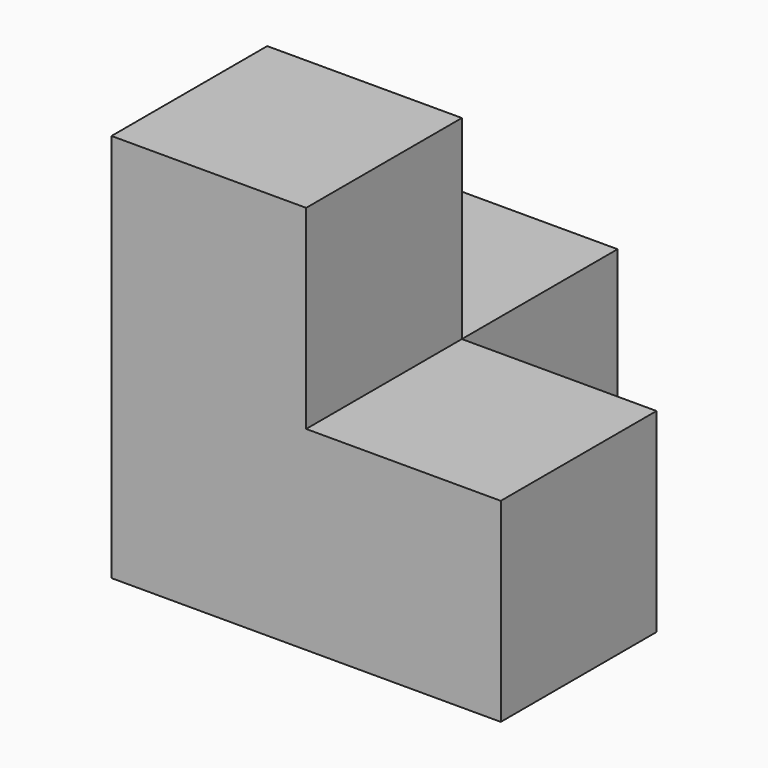
from build123d import *

# Parameters (mm, degrees)
BOX001_W     = 10
BOX001_H     = 10
BOX001_DEPTH = 10
BOX002_W     = 10
BOX002_H     = 10
BOX002_DEPTH = 10
BOX_W        = 10
BOX_H        = 10
BOX_DEPTH    = 20


with BuildPart() as cubo001:
    # Box001 → Box001 (new body)
    with BuildSketch(Plane(origin=(10, 0, 0), x_dir=(1, 0, 0), z_dir=(0, 0, 1))):
        with Locations((5, 5)):
            Rectangle(BOX001_W, BOX001_H)
    extrude(amount=BOX001_DEPTH)


with BuildPart() as cubo002:
    # Box002 → Box002 (new body)
    with BuildSketch(Plane(origin=(0, 10, 0), x_dir=(1, 0, 0), z_dir=(0, 0, 1))):
        with Locations((5, 5)):
            Rectangle(BOX002_W, BOX002_H)
    extrude(amount=BOX002_DEPTH)


with BuildPart() as fusion:
    # Box → Box (new body)
    with BuildSketch(Plane.XY):
        with Locations((5, 5)):
            Rectangle(BOX_W, BOX_H)
    extrude(amount=BOX_DEPTH)

    # Fusion: union Cubo001, Cubo002
    add(cubo001.part)
    add(cubo002.part)


solid = fusion.part
